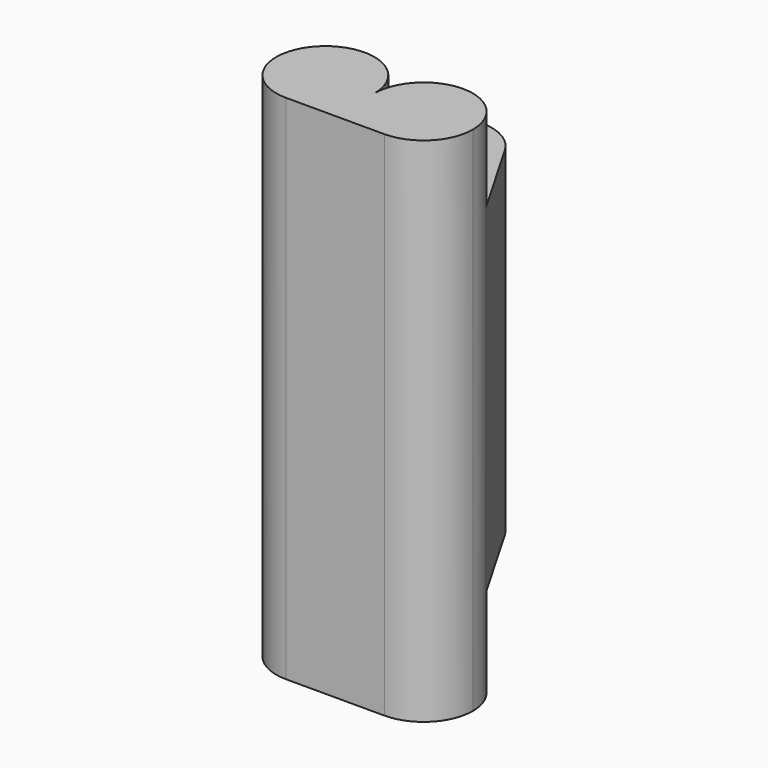
from build123d import *

# Parameters (mm, degrees)
F1_DEPTH = 127
F2_START = 22.86
F2_DEPTH = 84.074


with BuildPart() as f1:
    # F0 (on Top) → F1 (new body)
    with BuildSketch(Plane.XY):
        with BuildLine():
            ThreePointArc((6.0959999394, 10.5585816879), (1.6334182596, 6.0959999697), (0, 0))
            ThreePointArc((0, 0), (3.5709541238, -8.6210458762), (12.192, -12.192))
            ThreePointArc((12.192, -12.192), (20.8130458762, -8.6210458762), (24.384, 0))
            ThreePointArc((24.384, 0), (23.9685676741, 3.1555217979), (22.7505817229, 6.096))
            ThreePointArc((22.7505817229, 6.096), (15.3475217641, 11.7765676832), (6.0959999394, 10.5585816879))
        make_face()
        with BuildLine():
            ThreePointArc((-6.0960000213, 10.5585817352), (-15.3475218097, 11.7765676709), (-22.7505817229, 6.096))
            ThreePointArc((-22.7505817229, 6.096), (-22.7505817229, -6.096), (-12.192, -12.192))
            ThreePointArc((-12.192, -12.192), (-3.5709541238, -8.6210458762), (0, 0))
            ThreePointArc((0, 0), (-1.6334182832, 6.0960000106), (-6.0960000213, 10.5585817352))
        make_face()
        with BuildLine():
            ThreePointArc((0, 0), (-3.5709541238, -8.6210458762), (-12.192, -12.192))
            Line((-12.192, -12.192), (12.192, -12.192))
            ThreePointArc((12.192, -12.192), (3.5709541238, -8.6210458762), (0, 0))
        make_face()
    extrude(amount=F1_DEPTH)


with BuildPart() as f2:
    # F0 (on Top) → F2 (new body)
    with BuildSketch(Plane.XY.offset(F2_START)):
        with BuildLine():
            ThreePointArc((-10.5585817229, 27.2131634459), (-11.7765676773, 17.9616416598), (-6.0960000213, 10.5585817352))
            ThreePointArc((-6.0960000213, 10.5585817352), (-4.73e-08, 8.9251634459), (6.0959999394, 10.5585816879))
            ThreePointArc((6.0959999394, 10.5585816879), (10.5585817054, 15.0211634156), (12.192, 21.1171634459))
            ThreePointArc((12.192, 21.1171634459), (11.7765676741, 24.2726852438), (10.5585817229, 27.2131634459))
            ThreePointArc((10.5585817229, 27.2131634459), (0, 33.3091634459), (-10.5585817229, 27.2131634459))
        make_face()
        with BuildLine():
            ThreePointArc((12.192, 21.1171634459), (10.5585817054, 15.0211634156), (6.0959999394, 10.5585816879))
            ThreePointArc((6.0959999394, 10.5585816879), (15.3475217641, 11.7765676832), (22.7505817229, 6.096))
            Line((22.7505817229, 6.096), (10.5585817229, 27.2131634459))
            ThreePointArc((10.5585817229, 27.2131634459), (11.7765676741, 24.2726852438), (12.192, 21.1171634459))
        make_face()
        with BuildLine():
            Line((-10.5585817229, 27.2131634459), (-22.7505817229, 6.096))
            ThreePointArc((-22.7505817229, 6.096), (-15.3475218097, 11.7765676709), (-6.0960000213, 10.5585817352))
            ThreePointArc((-6.0960000213, 10.5585817352), (-11.7765676773, 17.9616416598), (-10.5585817229, 27.2131634459))
        make_face()
    extrude(amount=F2_DEPTH)


solid = Compound([f1.part, f2.part])
